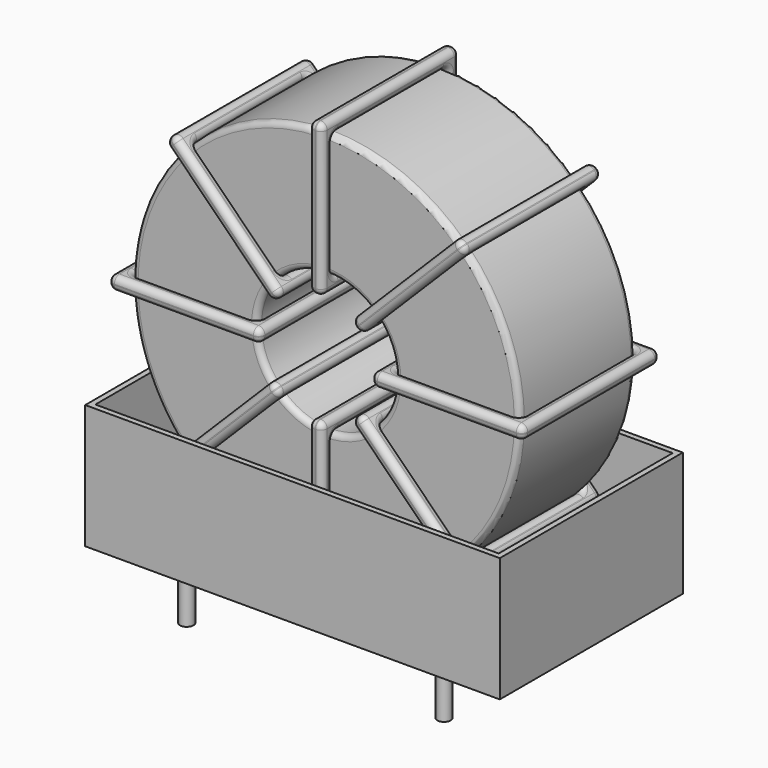
from build123d import *

# Parameters (mm, degrees)
SKETCH001_R   = 0.6
PAD001_DEPTH  = 5
SKETCH_R      = 17.215
SKETCH_R_2    = 6.138333
PAD_DEPTH     = 6.42
FILLET_R      = 0.5
SKETCH003_W   = 13.476667
SKETCH003_H   = 15.24
SKETCH003_W_2 = 11.076667
SKETCH003_H_2 = 12.84
PAD002_DEPTH  = 0.6
FILLET001_R   = 0.564
SKETCH004_W   = 13.476667
SKETCH004_H   = 15.24
SKETCH004_W_2 = 11.076667
SKETCH004_H_2 = 12.84
PAD003_DEPTH  = 0.6
FILLET002_R   = 0.564
SKETCH005_W   = 13.476667
SKETCH005_H   = 15.24
SKETCH005_W_2 = 11.076667
SKETCH005_H_2 = 12.84
PAD004_DEPTH  = 0.6
FILLET003_R   = 0.564
SKETCH006_W   = 13.476667
SKETCH006_H   = 15.24
SKETCH006_W_2 = 11.076667
SKETCH006_H_2 = 12.84
PAD005_DEPTH  = 0.6
FILLET004_R   = 0.564
SKETCH007_W   = 36.83
SKETCH007_H   = 20.32
PAD006_DEPTH  = 0.5
SKETCH008_W   = 36.83
SKETCH008_H   = 20.32
SKETCH008_W_2 = 35.83
SKETCH008_H_2 = 19.32
PAD007_DEPTH  = 11.049


with BuildPart() as pad001:
    # Sketch001 → Pad001 (new body)
    with BuildSketch(Plane.XY.offset(0.75)):
        Circle(SKETCH001_R)
        with Locations((22.86, -15.24)):
            Circle(SKETCH001_R)
        with Locations((0, -15.24)):
            Circle(SKETCH001_R)
        with Locations((22.86, 0)):
            Circle(SKETCH001_R)
    extrude(amount=-PAD001_DEPTH)


with BuildPart() as fillet_body:
    # Sketch → Pad (new body, symmetric)
    with BuildSketch(Plane(origin=(11.43, -7.62, 0), x_dir=(1, 0, 0), z_dir=(0, -1, 0))):
        with Locations((0, 20.115)):
            Circle(SKETCH_R)
        with Locations((0, 20.115)):
            Circle(SKETCH_R_2, mode=Mode.SUBTRACT)
    extrude(amount=PAD_DEPTH, both=True)

    # Fillet
    fillet_edges = [fillet_body.edges().sort_by_distance(p)[0] for p in [
        (5.291667, -14.04, 20.115),
        (-5.785, -14.04, 20.115),
        (-5.785, -1.2, 20.115),
    ]]
    fillet(fillet_edges, radius=FILLET_R)


with BuildPart() as fillet001:
    # Sketch003 → Pad002 (new body, symmetric)
    with BuildSketch(Plane(origin=(11.43, 0, 20.115), x_dir=(1, 0, 0), z_dir=(0, 0, -1))):
        with Locations((-11.676666, 7.62)):
            Rectangle(SKETCH003_W, SKETCH003_H)
        with Locations((-11.676666, 7.62)):
            Rectangle(SKETCH003_W_2, SKETCH003_H_2, mode=Mode.SUBTRACT)
        with Locations((11.676666, 7.62)):
            Rectangle(SKETCH003_W, SKETCH003_H)
        with Locations((11.676666, 7.62)):
            Rectangle(SKETCH003_W_2, SKETCH003_H_2, mode=Mode.SUBTRACT)
    extrude(amount=PAD002_DEPTH, both=True)

    # Fillet001
    fillet001_edges = [fillet001.edges().sort_by_distance(p)[0] for p in [
        (5.291667, -14.04, 20.115),
        (5.291667, -1.2, 20.115),
        (5.291667, -7.62, 20.715),
        (5.291667, -7.62, 19.515),
        (-6.985, -15.24, 20.115),
        (6.491667, -15.24, 20.115),
        (-0.246667, -15.24, 20.715),
        (-0.246667, -15.24, 19.515),
        (6.491667, 0, 20.115),
        (6.491667, -7.62, 20.715),
        (6.491667, -7.62, 19.515),
        (17.568333, -14.04, 20.115),
        (28.645, -14.04, 20.115),
        (23.106667, -14.04, 20.715),
        (23.106667, -14.04, 19.515),
        (28.645, -1.2, 20.115),
        (28.645, -7.62, 20.715),
        (28.645, -7.62, 19.515),
        (16.368333, -15.24, 20.115),
        (29.845, -15.24, 20.115),
        (23.106667, -15.24, 20.715),
        (23.106667, -15.24, 19.515),
        (29.845, 0, 20.115),
        (29.845, -7.62, 20.715),
        (29.845, -7.62, 19.515),
        (-5.785, -14.04, 20.115),
        (-0.246667, -14.04, 20.715),
        (-0.246667, -14.04, 19.515),
        (17.568333, -1.2, 20.115),
        (17.568333, -7.62, 20.715),
        (17.568333, -7.62, 19.515),
        (23.106667, -1.2, 20.715),
        (23.106667, -1.2, 19.515),
        (16.368333, 0, 20.115),
        (23.106667, 0, 20.715),
        (23.106667, 0, 19.515),
        (16.368333, -7.62, 20.715),
        (16.368333, -7.62, 19.515),
        (-6.985, 0, 20.115),
        (-0.246667, 0, 20.715),
        (-0.246667, 0, 19.515),
        (-6.985, -7.62, 20.715),
        (-6.985, -7.62, 19.515),
        (-5.785, -1.2, 20.115),
        (-5.785, -7.62, 20.715),
        (-5.785, -7.62, 19.515),
        (-0.246667, -1.2, 20.715),
        (-0.246667, -1.2, 19.515),
    ]]
    fillet(fillet001_edges, radius=FILLET001_R)


with BuildPart() as fillet002:
    # Sketch004 → Pad003 (new body, symmetric)
    with BuildSketch(Plane(origin=(11.43, 0, 20.115), x_dir=(0.707108, 0, 0.707106), z_dir=(0.707106, 0, -0.707108))):
        with Locations((-11.676666, 7.62)):
            Rectangle(SKETCH004_W, SKETCH004_H)
        with Locations((-11.676666, 7.62)):
            Rectangle(SKETCH004_W_2, SKETCH004_H_2, mode=Mode.SUBTRACT)
        with Locations((11.676666, 7.62)):
            Rectangle(SKETCH004_W, SKETCH004_H)
        with Locations((11.676666, 7.62)):
            Rectangle(SKETCH004_W_2, SKETCH004_H_2, mode=Mode.SUBTRACT)
    extrude(amount=PAD003_DEPTH, both=True)

    # Fillet002
    fillet002_edges = [fillet002.edges().sort_by_distance(p)[0] for p in [
        (-0.742857, -14.04, 7.942171),
        (7.089538, -1.2, 15.774548),
        (2.749077, -1.2, 12.282624),
        (3.597604, -1.2, 11.434095),
        (-1.591386, -15.24, 7.093644),
        (7.938067, -15.24, 16.623075),
        (2.749077, -15.24, 12.282624),
        (3.597604, -15.24, 11.434095),
        (7.938067, 0, 16.623075),
        (7.513803, -7.62, 17.04734),
        (8.362331, -7.62, 16.19881),
        (15.770462, -14.04, 24.455452),
        (23.602857, -14.04, 32.287829),
        (19.262396, -14.04, 28.795905),
        (20.110923, -14.04, 27.947376),
        (23.602857, -1.2, 32.287829),
        (23.178594, -7.62, 32.712094),
        (24.027121, -7.62, 31.863565),
        (14.921933, -15.24, 23.606925),
        (24.451386, -15.24, 33.136356),
        (19.262396, -15.24, 28.795905),
        (20.110923, -15.24, 27.947376),
        (24.451386, 0, 33.136356),
        (24.027123, -7.62, 33.560621),
        (24.87565, -7.62, 32.712092),
        (-0.742857, -1.2, 7.942171),
        (-1.167121, -7.62, 8.366435),
        (-0.318594, -7.62, 7.517906),
        (15.770462, -1.2, 24.455452),
        (15.346199, -7.62, 24.879717),
        (16.194726, -7.62, 24.031188),
        (19.262396, -1.2, 28.795905),
        (20.110923, -1.2, 27.947376),
        (14.921933, 0, 23.606925),
        (19.262396, 0, 28.795905),
        (20.110923, 0, 27.947376),
        (14.497669, -7.62, 24.03119),
        (15.346197, -7.62, 23.18266),
        (-1.591386, 0, 7.093644),
        (2.749077, 0, 12.282624),
        (3.597604, 0, 11.434095),
        (-2.01565, -7.62, 7.517908),
        (-1.167123, -7.62, 6.669379),
        (7.089538, -14.04, 15.774548),
        (2.749077, -14.04, 12.282624),
        (3.597604, -14.04, 11.434095),
        (6.665274, -7.62, 16.198812),
        (7.513801, -7.62, 15.350283),
    ]]
    fillet(fillet002_edges, radius=FILLET002_R)


with BuildPart() as fillet003:
    # Sketch005 → Pad004 (new body, symmetric)
    with BuildSketch(Plane(origin=(11.43, 0, 20.115), x_dir=(0.707108, 0, -0.707106), z_dir=(-0.707106, 0, -0.707108))):
        with Locations((-11.676666, 7.62)):
            Rectangle(SKETCH005_W, SKETCH005_H)
        with Locations((-11.676666, 7.62)):
            Rectangle(SKETCH005_W_2, SKETCH005_H_2, mode=Mode.SUBTRACT)
        with Locations((11.676666, 7.62)):
            Rectangle(SKETCH005_W, SKETCH005_H)
        with Locations((11.676666, 7.62)):
            Rectangle(SKETCH005_W_2, SKETCH005_H_2, mode=Mode.SUBTRACT)
    extrude(amount=PAD004_DEPTH, both=True)

    # Fillet003
    fillet003_edges = [fillet003.edges().sort_by_distance(p)[0] for p in [
        (23.602857, -14.04, 7.942171),
        (23.602857, -1.2, 7.942171),
        (24.027121, -7.62, 8.366435),
        (23.178594, -7.62, 7.517906),
        (24.451386, 0, 7.093644),
        (14.921933, 0, 16.623075),
        (20.110923, 0, 12.282624),
        (19.262396, 0, 11.434095),
        (14.921933, -15.24, 16.623075),
        (15.346197, -7.62, 17.04734),
        (14.497669, -7.62, 16.19881),
        (-0.742857, -14.04, 32.287829),
        (7.089538, -14.04, 24.455452),
        (3.597604, -14.04, 28.795905),
        (2.749077, -14.04, 27.947376),
        (7.089538, -1.2, 24.455452),
        (7.513801, -7.62, 24.879717),
        (6.665274, -7.62, 24.031188),
        (7.938067, 0, 23.606925),
        (-1.591386, 0, 33.136356),
        (3.597604, 0, 28.795905),
        (2.749077, 0, 27.947376),
        (-1.591386, -15.24, 33.136356),
        (-1.167123, -7.62, 33.560621),
        (-2.01565, -7.62, 32.712092),
        (15.770462, -14.04, 15.774548),
        (20.110923, -14.04, 12.282624),
        (19.262396, -14.04, 11.434095),
        (-0.742857, -1.2, 32.287829),
        (-0.318594, -7.62, 32.712094),
        (-1.167121, -7.62, 31.863565),
        (3.597604, -1.2, 28.795905),
        (2.749077, -1.2, 27.947376),
        (7.938067, -15.24, 23.606925),
        (3.597604, -15.24, 28.795905),
        (2.749077, -15.24, 27.947376),
        (8.362331, -7.62, 24.03119),
        (7.513803, -7.62, 23.18266),
        (24.451386, -15.24, 7.093644),
        (20.110923, -15.24, 12.282624),
        (19.262396, -15.24, 11.434095),
        (24.87565, -7.62, 7.517908),
        (24.027123, -7.62, 6.669379),
        (15.770462, -1.2, 15.774548),
        (16.194726, -7.62, 16.198812),
        (15.346199, -7.62, 15.350283),
        (20.110923, -1.2, 12.282624),
        (19.262396, -1.2, 11.434095),
    ]]
    fillet(fillet003_edges, radius=FILLET003_R)


with BuildPart() as fillet004:
    # Sketch006 → Pad005 (new body, symmetric)
    with BuildSketch(Plane(origin=(11.43, 0, 20.115), x_dir=(0, 0, 1), z_dir=(1, 0, 0))):
        with Locations((-11.676666, 7.62)):
            Rectangle(SKETCH006_W, SKETCH006_H)
        with Locations((-11.676666, 7.62)):
            Rectangle(SKETCH006_W_2, SKETCH006_H_2, mode=Mode.SUBTRACT)
        with Locations((11.676666, 7.62)):
            Rectangle(SKETCH006_W, SKETCH006_H)
        with Locations((11.676666, 7.62)):
            Rectangle(SKETCH006_W_2, SKETCH006_H_2, mode=Mode.SUBTRACT)
    extrude(amount=PAD005_DEPTH, both=True)

    # Fillet004
    fillet004_edges = [fillet004.edges().sort_by_distance(p)[0] for p in [
        (11.43, -14.04, 37.33),
        (11.43, -1.2, 37.33),
        (10.83, -7.62, 37.33),
        (12.03, -7.62, 37.33),
        (11.43, 0, 38.53),
        (11.43, 0, 25.053333),
        (10.83, 0, 31.791667),
        (12.03, 0, 31.791667),
        (11.43, -15.24, 25.053333),
        (10.83, -7.62, 25.053333),
        (12.03, -7.62, 25.053333),
        (11.43, -14.04, 2.9),
        (11.43, -14.04, 13.976667),
        (10.83, -14.04, 8.438333),
        (12.03, -14.04, 8.438333),
        (11.43, -1.2, 13.976667),
        (10.83, -7.62, 13.976667),
        (12.03, -7.62, 13.976667),
        (11.43, 0, 15.176667),
        (11.43, 0, 1.7),
        (10.83, 0, 8.438333),
        (12.03, 0, 8.438333),
        (11.43, -15.24, 1.7),
        (10.83, -7.62, 1.7),
        (12.03, -7.62, 1.7),
        (11.43, -14.04, 26.253333),
        (10.83, -14.04, 31.791667),
        (12.03, -14.04, 31.791667),
        (11.43, -1.2, 2.9),
        (10.83, -7.62, 2.9),
        (12.03, -7.62, 2.9),
        (10.83, -1.2, 8.438333),
        (12.03, -1.2, 8.438333),
        (11.43, -15.24, 15.176667),
        (10.83, -15.24, 8.438333),
        (12.03, -15.24, 8.438333),
        (10.83, -7.62, 15.176667),
        (12.03, -7.62, 15.176667),
        (11.43, -15.24, 38.53),
        (10.83, -15.24, 31.791667),
        (12.03, -15.24, 31.791667),
        (10.83, -7.62, 38.53),
        (12.03, -7.62, 38.53),
        (11.43, -1.2, 26.253333),
        (10.83, -7.62, 26.253333),
        (12.03, -7.62, 26.253333),
        (10.83, -1.2, 31.791667),
        (12.03, -1.2, 31.791667),
    ]]
    fillet(fillet004_edges, radius=FILLET004_R)


with BuildPart() as pad006:
    # Sketch007 → Pad006 (new body)
    with BuildSketch(Plane(origin=(11.43, 0, 0.5), x_dir=(1, 0, 0), z_dir=(0, 0, 1))):
        with Locations((0, -7.62)):
            Rectangle(SKETCH007_W, SKETCH007_H)
    extrude(amount=PAD006_DEPTH)


with BuildPart() as pad007:
    # Sketch008 → Pad007 (new body)
    with BuildSketch(Plane(origin=(11.43, 0, 0.5), x_dir=(1, 0, 0), z_dir=(0, 0, 1))):
        with Locations((0, -7.62)):
            Rectangle(SKETCH008_W, SKETCH008_H)
        with Locations((0, -7.62)):
            Rectangle(SKETCH008_W_2, SKETCH008_H_2, mode=Mode.SUBTRACT)
    extrude(amount=PAD007_DEPTH)


solid = Compound([pad001.part, fillet_body.part, fillet001.part, fillet002.part, fillet003.part, fillet004.part, pad006.part, pad007.part])
